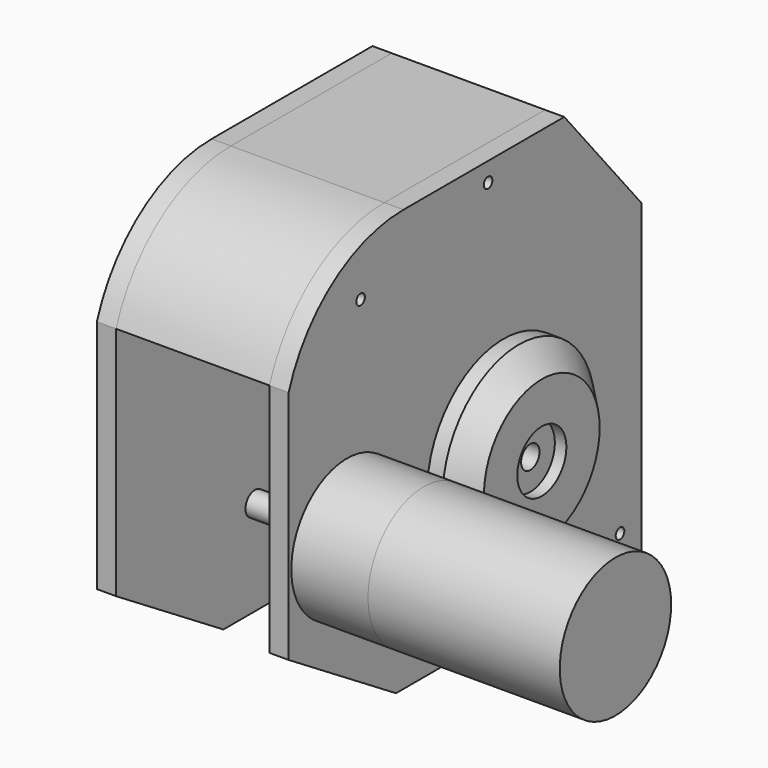
from build123d import *

# Parameters (mm, degrees)
F0_R      = 18.1489835963
F0_R_2    = 24.845
F0_R_3    = 17.845
F0_R_4    = 1.4
F0_R_5    = 8
F1_DEPTH  = 5
F2_DEPTH  = 15
F3_SIZE   = 6
F14_START = -40
F0_R_6    = 3.1
F14_DEPTH = 5
F4_START  = -40
F4_DEPTH  = 15
F5_SIZE   = 6
F6_DEPTH  = 40
F7_DEPTH  = 40
F0_R_7    = 3
F8_DEPTH  = 7
F9_DEPTH  = 19
F10_DEPTH = 12
F11_START = -40
F11_DEPTH = 12
F12_START = 5
F12_DEPTH = 20
F13_START = 25
F13_DEPTH = 50


with BuildPart() as f1:
    # F0 (on Right) → F1 (new body)
    with BuildSketch(Plane.YZ):
        Polygon((44.982, 37.731), (19.8090110647, 67.731), (3.6292809527, 55.4130636156), (-70.018, 40.9834273168), (-70.018, -20.3985726832), (-35.018, -42.269), (16.5140349418, -42.269), (44.982, -13.0415838212), align=None)
        with Locations((-50.999, 0)):
            Circle(F0_R, mode=Mode.SUBTRACT)
        Circle(F0_R_2, mode=Mode.SUBTRACT)
        Circle(F0_R_2)
        Circle(F0_R_3, mode=Mode.SUBTRACT)
        with BuildLine():
            Line((19.8090110647, 67.731), (-32.5999889353, 67.731))
            ThreePointArc((-32.5999889353, 67.731), (-55.5974898674, 60.3565232114), (-70.018, 40.9834273168))
            Line((-70.018, 40.9834273168), (3.6292809527, 55.4130636156))
            Line((3.6292809527, 55.4130636156), (19.8090110647, 67.731))
        make_face()
        with Locations((-46.5672537684, 52.8192184865)):
            Circle(F0_R_4, mode=Mode.SUBTRACT)
        with Locations((-5.0183360389, 62.731)):
            Circle(F0_R_4, mode=Mode.SUBTRACT)
        with Locations((-50.999, 0)):
            Circle(F0_R)
        with Locations((-50.999, -13.8062536716)):
            Circle(F0_R_4, mode=Mode.SUBTRACT)
        with Locations((-50.999, 0)):
            Circle(F0_R_5, mode=Mode.SUBTRACT)
        with BuildLine():
            ThreePointArc((-44.4933816498, 15.7059520527), (-43.6815874996, 13.7461076054), (-45.6414319469, 12.9343134552))
            ThreePointArc((-45.6414319469, 12.9343134552), (-50.999, 14), (-56.3565680531, 12.9343134552))
            ThreePointArc((-56.3565680531, 12.9343134552), (-58.3164125004, 13.7461076054), (-57.5046183502, 15.7059520527))
            ThreePointArc((-57.5046183502, 15.7059520527), (-50.999, 17), (-44.4933816498, 15.7059520527))
        make_face(mode=Mode.SUBTRACT)
        Circle(F0_R_3)
        Circle(F0_R_5, mode=Mode.SUBTRACT)
        Polygon((44.982, -42.269), (44.982, -13.0415838212), (16.5140349418, -42.269), align=None)
        with Locations((37.982, -35.269)):
            Circle(F0_R_4, mode=Mode.SUBTRACT)
    extrude(amount=F1_DEPTH)

    # F0 (on Right) → F2 (join)
    with BuildSketch(Plane.YZ):
        Circle(F0_R_2)
        Circle(F0_R_3, mode=Mode.SUBTRACT)
        Circle(F0_R_3)
        Circle(F0_R_5, mode=Mode.SUBTRACT)
    extrude(amount=F2_DEPTH)

    # F3
    f3_edges = [f1.edges().sort_by_distance(p)[0] for p in [
        (15, -24.845, 0),
    ]]
    chamfer(f3_edges, length=F3_SIZE)


with BuildPart() as f14:
    # F0 (on Right) → F14 (new body)
    with BuildSketch(Plane.YZ.offset(F14_START)):
        Polygon((44.982, 37.731), (19.8090110647, 67.731), (3.6292809527, 55.4130636156), (-70.018, 40.9834273168), (-70.018, -20.3985726832), (-35.018, -42.269), (16.5140349418, -42.269), (44.982, -13.0415838212), align=None)
        with Locations((-50.999, 0)):
            Circle(F0_R, mode=Mode.SUBTRACT)
        Circle(F0_R_2, mode=Mode.SUBTRACT)
        Circle(F0_R_2)
        Circle(F0_R_3, mode=Mode.SUBTRACT)
        with BuildLine():
            Line((19.8090110647, 67.731), (-32.5999889353, 67.731))
            ThreePointArc((-32.5999889353, 67.731), (-55.5974898674, 60.3565232114), (-70.018, 40.9834273168))
            Line((-70.018, 40.9834273168), (3.6292809527, 55.4130636156))
            Line((3.6292809527, 55.4130636156), (19.8090110647, 67.731))
        make_face()
        with Locations((-46.5672537684, 52.8192184865)):
            Circle(F0_R_4, mode=Mode.SUBTRACT)
        with Locations((-5.0183360389, 62.731)):
            Circle(F0_R_4, mode=Mode.SUBTRACT)
        with Locations((-50.999, 0)):
            Circle(F0_R)
        with Locations((-50.999, -13.8062536716)):
            Circle(F0_R_4, mode=Mode.SUBTRACT)
        with Locations((-50.999, 0)):
            Circle(F0_R_5, mode=Mode.SUBTRACT)
        with BuildLine():
            ThreePointArc((-44.4933816498, 15.7059520527), (-43.6815874996, 13.7461076054), (-45.6414319469, 12.9343134552))
            ThreePointArc((-45.6414319469, 12.9343134552), (-50.999, 14), (-56.3565680531, 12.9343134552))
            ThreePointArc((-56.3565680531, 12.9343134552), (-58.3164125004, 13.7461076054), (-57.5046183502, 15.7059520527))
            ThreePointArc((-57.5046183502, 15.7059520527), (-50.999, 17), (-44.4933816498, 15.7059520527))
        make_face(mode=Mode.SUBTRACT)
        Circle(F0_R_3)
        Circle(F0_R_5, mode=Mode.SUBTRACT)
        Polygon((44.982, -42.269), (44.982, -13.0415838212), (16.5140349418, -42.269), align=None)
        with Locations((37.982, -35.269)):
            Circle(F0_R_4, mode=Mode.SUBTRACT)
        with Locations((-50.999, 0)):
            Circle(F0_R_5)
        with Locations((-50.999, 0)):
            Circle(F0_R_6, mode=Mode.SUBTRACT)
        with BuildLine():
            ThreePointArc((-56.3565680531, 12.9343134552), (-50.999, 14), (-45.6414319469, 12.9343134552))
            ThreePointArc((-45.6414319469, 12.9343134552), (-43.6815874996, 13.7461076054), (-44.4933816498, 15.7059520527))
            ThreePointArc((-44.4933816498, 15.7059520527), (-50.999, 17), (-57.5046183502, 15.7059520527))
            ThreePointArc((-57.5046183502, 15.7059520527), (-58.3164125004, 13.7461076054), (-56.3565680531, 12.9343134552))
        make_face()
        with Locations((-50.999, 0)):
            Circle(F0_R_6)
        with Locations((-50.999, -13.8062536716)):
            Circle(F0_R_4)
    extrude(amount=-F14_DEPTH)

    # F0 (on Right) → F4 (join)
    with BuildSketch(Plane.YZ.offset(F4_START)):
        Circle(F0_R_2)
        Circle(F0_R_3, mode=Mode.SUBTRACT)
        Circle(F0_R_3)
        Circle(F0_R_5, mode=Mode.SUBTRACT)
    extrude(amount=-F4_DEPTH)

    # F5
    f5_edges = [f14.edges().sort_by_distance(p)[0] for p in [
        (-55, -24.845, 0),
    ]]
    chamfer(f5_edges, length=F5_SIZE)


with BuildPart() as f6:
    # F0 (on Right) → F6 (new body)
    with BuildSketch(Plane.YZ):
        with BuildLine():
            Line((19.8090110647, 67.731), (-32.5999889353, 67.731))
            ThreePointArc((-32.5999889353, 67.731), (-55.5974898674, 60.3565232114), (-70.018, 40.9834273168))
            Line((-70.018, 40.9834273168), (3.6292809527, 55.4130636156))
            Line((3.6292809527, 55.4130636156), (19.8090110647, 67.731))
        make_face()
        with Locations((-46.5672537684, 52.8192184865)):
            Circle(F0_R_4, mode=Mode.SUBTRACT)
        with Locations((-5.0183360389, 62.731)):
            Circle(F0_R_4, mode=Mode.SUBTRACT)
    extrude(amount=-F6_DEPTH)


with BuildPart() as f7:
    # F0 (on Right) → F7 (new body)
    with BuildSketch(Plane.YZ):
        Polygon((44.982, -42.269), (44.982, -13.0415838212), (16.5140349418, -42.269), align=None)
        with Locations((37.982, -35.269)):
            Circle(F0_R_4, mode=Mode.SUBTRACT)
    extrude(amount=-F7_DEPTH)


with BuildPart() as f8:
    # F0 (on Right) → F8 (new body)
    with BuildSketch(Plane.YZ):
        Circle(F0_R_7)
    extrude(amount=-F8_DEPTH)


with BuildPart() as f9:
    # F0 (on Right) → F9 (new body)
    with BuildSketch(Plane.YZ):
        with Locations((-50.999, 0)):
            Circle(F0_R_6)
    extrude(amount=-F9_DEPTH)


with BuildPart() as f10:
    # F0 (on Right) → F10 (new body)
    with BuildSketch(Plane.YZ):
        Circle(F0_R_5)
        Circle(F0_R_7, mode=Mode.SUBTRACT)
    extrude(amount=F10_DEPTH)


with BuildPart() as f11:
    # F0 (on Right) → F11 (new body)
    with BuildSketch(Plane.YZ.offset(F11_START)):
        Circle(F0_R_5)
        Circle(F0_R_7, mode=Mode.SUBTRACT)
    extrude(amount=-F11_DEPTH)


with BuildPart() as f12:
    # F0 (on Right) → F12 (new body)
    with BuildSketch(Plane.YZ.offset(F12_START)):
        with Locations((-50.999, 0)):
            Circle(F0_R)
        with Locations((-50.999, -13.8062536716)):
            Circle(F0_R_4, mode=Mode.SUBTRACT)
        with Locations((-50.999, 0)):
            Circle(F0_R_5, mode=Mode.SUBTRACT)
        with BuildLine():
            ThreePointArc((-44.4933816498, 15.7059520527), (-43.6815874996, 13.7461076054), (-45.6414319469, 12.9343134552))
            ThreePointArc((-45.6414319469, 12.9343134552), (-50.999, 14), (-56.3565680531, 12.9343134552))
            ThreePointArc((-56.3565680531, 12.9343134552), (-58.3164125004, 13.7461076054), (-57.5046183502, 15.7059520527))
            ThreePointArc((-57.5046183502, 15.7059520527), (-50.999, 17), (-44.4933816498, 15.7059520527))
        make_face(mode=Mode.SUBTRACT)
        with BuildLine():
            ThreePointArc((-56.3565680531, 12.9343134552), (-50.999, 14), (-45.6414319469, 12.9343134552))
            ThreePointArc((-45.6414319469, 12.9343134552), (-43.6815874996, 13.7461076054), (-44.4933816498, 15.7059520527))
            ThreePointArc((-44.4933816498, 15.7059520527), (-50.999, 17), (-57.5046183502, 15.7059520527))
            ThreePointArc((-57.5046183502, 15.7059520527), (-58.3164125004, 13.7461076054), (-56.3565680531, 12.9343134552))
        make_face()
        with Locations((-50.999, -13.8062536716)):
            Circle(F0_R_4)
        with Locations((-50.999, 0)):
            Circle(F0_R_5)
        with Locations((-50.999, 0)):
            Circle(F0_R_6, mode=Mode.SUBTRACT)
        with Locations((-50.999, 0)):
            Circle(F0_R_6)
    extrude(amount=F12_DEPTH)


with BuildPart() as f13:
    # F0 (on Right) → F13 (new body)
    with BuildSketch(Plane.YZ.offset(F13_START)):
        with Locations((-50.999, 0)):
            Circle(F0_R)
        with Locations((-50.999, -13.8062536716)):
            Circle(F0_R_4, mode=Mode.SUBTRACT)
        with Locations((-50.999, 0)):
            Circle(F0_R_5, mode=Mode.SUBTRACT)
        with BuildLine():
            ThreePointArc((-44.4933816498, 15.7059520527), (-43.6815874996, 13.7461076054), (-45.6414319469, 12.9343134552))
            ThreePointArc((-45.6414319469, 12.9343134552), (-50.999, 14), (-56.3565680531, 12.9343134552))
            ThreePointArc((-56.3565680531, 12.9343134552), (-58.3164125004, 13.7461076054), (-57.5046183502, 15.7059520527))
            ThreePointArc((-57.5046183502, 15.7059520527), (-50.999, 17), (-44.4933816498, 15.7059520527))
        make_face(mode=Mode.SUBTRACT)
        with BuildLine():
            ThreePointArc((-56.3565680531, 12.9343134552), (-50.999, 14), (-45.6414319469, 12.9343134552))
            ThreePointArc((-45.6414319469, 12.9343134552), (-43.6815874996, 13.7461076054), (-44.4933816498, 15.7059520527))
            ThreePointArc((-44.4933816498, 15.7059520527), (-50.999, 17), (-57.5046183502, 15.7059520527))
            ThreePointArc((-57.5046183502, 15.7059520527), (-58.3164125004, 13.7461076054), (-56.3565680531, 12.9343134552))
        make_face()
        with Locations((-50.999, 0)):
            Circle(F0_R_5)
        with Locations((-50.999, 0)):
            Circle(F0_R_6, mode=Mode.SUBTRACT)
        with Locations((-50.999, 0)):
            Circle(F0_R_6)
        with Locations((-50.999, -13.8062536716)):
            Circle(F0_R_4)
    extrude(amount=F13_DEPTH)


solid = Compound([f1.part, f14.part, f6.part, f7.part, f8.part, f9.part, f10.part, f11.part, f12.part, f13.part])
